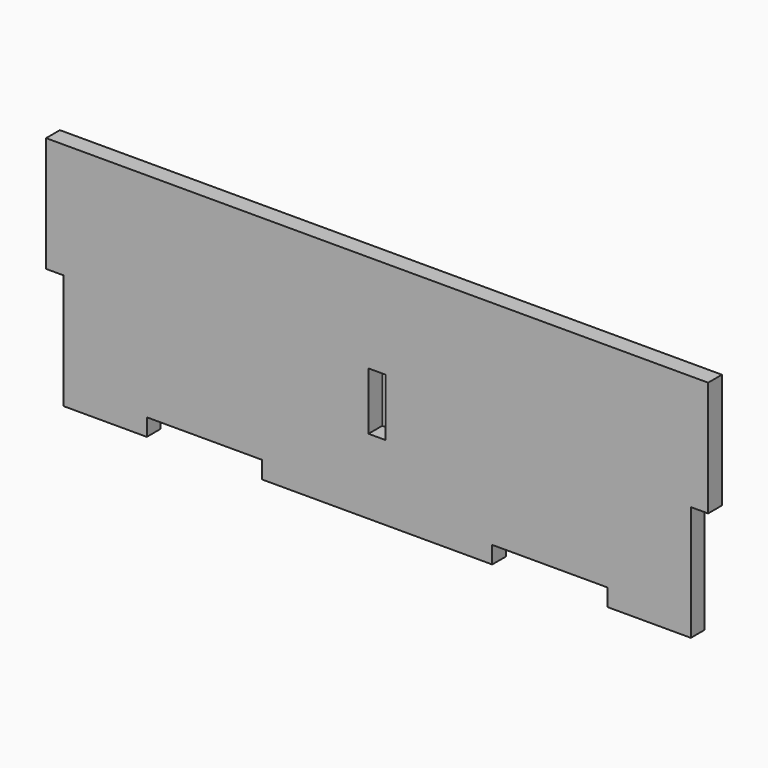
from build123d import *

# Parameters (mm, degrees)
F1_DEPTH = 3


with BuildPart() as f1:
    # F0 (on Front) → F1 (new body)
    with BuildSketch(Plane.XZ):
        Polygon((40, -20), (54.5, -20), (54.5, 0), (57.5, 0), (57.5, 20), (-57.5, 20), (-57.5, 0), (-54.5, 0), (-54.5, -20), (-40, -20), (-40, -17), (-20, -17), (-20, -20), (20, -20), (20, -17), (40, -17), align=None)
        Polygon((-1.5, 3), (0, 3), (1.5, 3), (1.5, -7), (0, -7), (-1.5, -7), align=None, mode=Mode.SUBTRACT)
    extrude(amount=F1_DEPTH)


solid = f1.part
